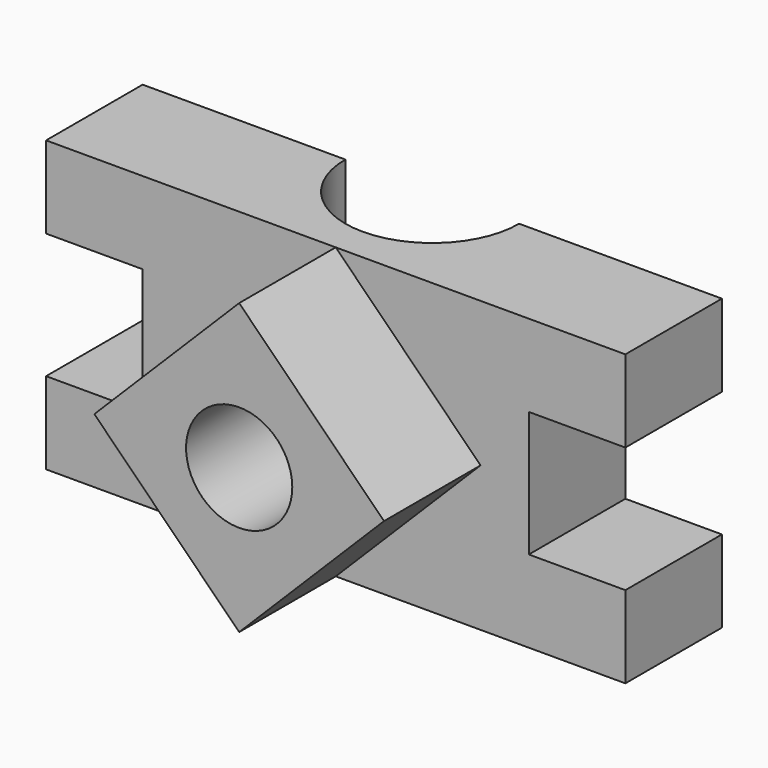
from build123d import *

# Parameters (mm, degrees)
F1_DEPTH = 635
F3_DEPTH = 1524.001
F5_DEPTH = 635
F6_R     = 279.4
F7_DEPTH = 1270.001


with BuildPart() as f1:
    # F0 (on Front) → F1 (new body)
    with BuildSketch(Plane.XZ):
        Polygon((-1524, -762), (1524, -762), (1524, -330.2), (1016, -330.2), (1016, 330.2), (1524, 330.2), (1524, 762), (-1524, 762), (-1524, 330.2), (-1016, 330.2), (-1016, -330.2), (-1524, -330.2), align=None)
    extrude(amount=F1_DEPTH)

    # F2 (on face) → F3 (cut, through all)
    with BuildSketch(Plane(origin=(0, 0, -762), x_dir=(1, 0, 0), z_dir=(0, 0, -1))):
        with BuildLine():
            Line((-457.2, 0), (457.2, 0))
            ThreePointArc((457.2, 0), (0, 457.2), (-457.2, 0))
        make_face()
    extrude(amount=-F3_DEPTH, mode=Mode.SUBTRACT)

    # F4 (on face) → F5 (join)
    with BuildSketch(Plane.XZ.offset(635)):
        Polygon((762, 0), (0, 762), (-762, 0), (0, -762), align=None)
    extrude(amount=F5_DEPTH)

    # F6 (on face) → F7 (cut, through all)
    with BuildSketch(Plane.XZ.offset(1270)):
        Circle(F6_R)
    extrude(amount=-F7_DEPTH, mode=Mode.SUBTRACT)


solid = f1.part
